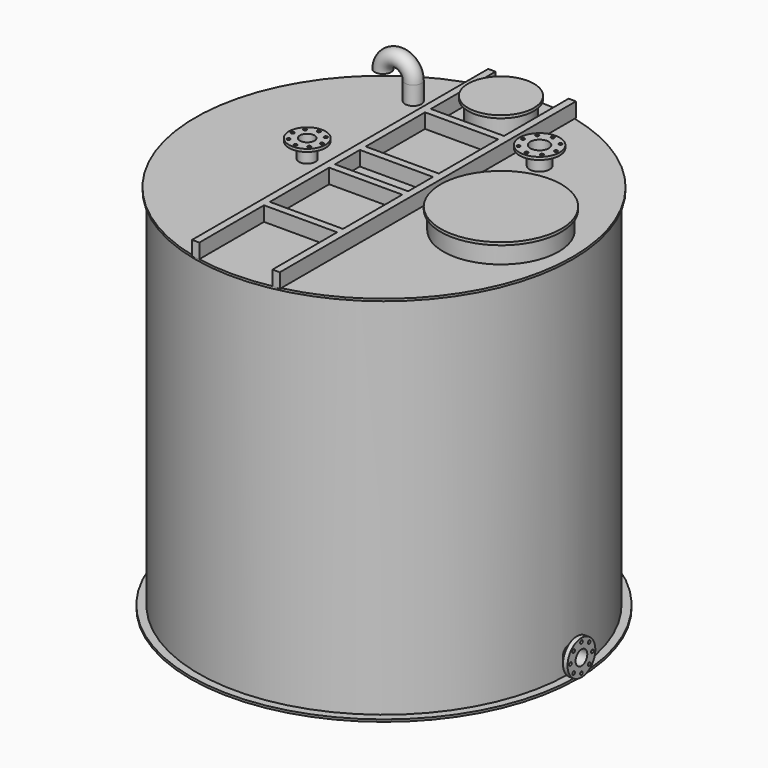
from build123d import *

# Parameters (mm, degrees)
F2_W      = 400
F2_H      = 405.5
F2_H_2    = 170
F3_DEPTH  = 80
F4_R      = 315
F5_DEPTH  = 100
F6_R      = 330
F7_DEPTH  = 15
F8_R      = 45
F9_DEPTH  = 100
F10_R     = 100
F10_R_2   = 9
F11_DEPTH = 15
F12_R     = 40
F13_DEPTH = 200
F14_R     = 158
F15_DEPTH = 100
F16_R     = 180
F17_DEPTH = 15
F18_R     = 55
F19_DEPTH = 100
F20_R     = 110
F20_R_2   = 9
F20_R_3   = 55
F21_DEPTH = 15
F22_R     = 50
F23_DEPTH = 200
F24_R     = 45
F28_R     = 45
F29_DEPTH = 1080
F30_R     = 95
F30_R_2   = 9
F31_DEPTH = 25
F32_R     = 40
F33_DEPTH = 500
F34_R     = 45
F35_DEPTH = 1080
F36_R     = 95
F36_R_2   = 9
F37_DEPTH = 15
F38_R     = 40
F39_DEPTH = 1000


with BuildPart() as f1:
    # F0 (on Front) → F1 (revolve)
    with BuildSketch(Plane.XZ):
        Polygon((0, 2024), (0, 0), (1015, 0), (1058, 0), (1058, 12), (1015, 12), (1015, 2012), (1032, 2012), (1032, 2024), (1015, 2024), align=None)
    revolve(axis=Axis((0, 0, 1012), (0, 0, 1)))

    # F2 (on face) → F3 (join)
    with BuildSketch(Plane.XY.offset(2024)):
        Polygon((-200, 1012.5), (-240, 1012.5), (-240, -1012.5), (-200, -1012.5), (-200, -570.5), (200, -570.5), (200, -1012.5), (240, -1012.5), (240, 1012.5), (200, 1012.5), (200, 570.5), (-200, 570.5), align=None)
        with Locations((0, -327.75)):
            Rectangle(F2_W, F2_H, mode=Mode.SUBTRACT)
        Rectangle(F2_W, F2_H_2, mode=Mode.SUBTRACT)
        with Locations((0, 327.75)):
            Rectangle(F2_W, F2_H, mode=Mode.SUBTRACT)
    extrude(amount=F3_DEPTH)

    # F4 (on face) → F5 (join)
    with BuildSketch(Plane.XY.offset(2024)):
        with Locations((640, 0)):
            Circle(F4_R)
    extrude(amount=F5_DEPTH)

    # F6 (on face) → F7 (join)
    with BuildSketch(Plane.XY.offset(2124)):
        with Locations((640, 0)):
            Circle(F6_R)
    extrude(amount=F7_DEPTH)

    # F8 (on face) → F9 (join)
    with BuildSketch(Plane.XY.offset(2024)):
        with Locations((-420, 0)):
            Circle(F8_R)
    extrude(amount=F9_DEPTH)

    # F10 (on face) → F11 (join)
    with BuildSketch(Plane.XY.offset(2124)):
        with Locations((-420, 0)):
            Circle(F10_R)
        with Locations((-476.568542, -56.568542)):
            Circle(F10_R_2, mode=Mode.SUBTRACT)
        with Locations((-420, -80)):
            Circle(F10_R_2, mode=Mode.SUBTRACT)
        with Locations((-363.431458, -56.568542)):
            Circle(F10_R_2, mode=Mode.SUBTRACT)
        with Locations((-500, 0)):
            Circle(F10_R_2, mode=Mode.SUBTRACT)
        with Locations((-476.568542, 56.568542)):
            Circle(F10_R_2, mode=Mode.SUBTRACT)
        with Locations((-340, 0)):
            Circle(F10_R_2, mode=Mode.SUBTRACT)
        with Locations((-420, 80)):
            Circle(F10_R_2, mode=Mode.SUBTRACT)
        with Locations((-363.431458, 56.568542)):
            Circle(F10_R_2, mode=Mode.SUBTRACT)
    extrude(amount=-F11_DEPTH)

    # F12 (on face) → F13 (cut)
    with BuildSketch(Plane.XY.offset(2124)):
        with Locations((-420, 0)):
            Circle(F12_R)
    extrude(amount=-F13_DEPTH, mode=Mode.SUBTRACT)

    # F14 (on face) → F15 (join)
    with BuildSketch(Plane.XY.offset(2024)):
        with Locations((0, 800)):
            Circle(F14_R)
    extrude(amount=F15_DEPTH)

    # F16 (on face) → F17 (join)
    with BuildSketch(Plane.XY.offset(2124)):
        with Locations((0, 800)):
            Circle(F16_R)
    extrude(amount=F17_DEPTH)

    # F18 (on face) → F19 (join)
    with BuildSketch(Plane.XY.offset(2024)):
        with Locations((395, 570)):
            Circle(F18_R)
    extrude(amount=F19_DEPTH)

    # F20 (on face) → F21 (join)
    with BuildSketch(Plane.XY.offset(2124)):
        with Locations((395, 570)):
            Circle(F20_R)
        with Locations((331.36039, 506.36039)):
            Circle(F20_R_2, mode=Mode.SUBTRACT)
        with Locations((395, 480)):
            Circle(F20_R_2, mode=Mode.SUBTRACT)
        with Locations((458.63961, 506.36039)):
            Circle(F20_R_2, mode=Mode.SUBTRACT)
        with Locations((305, 570)):
            Circle(F20_R_2, mode=Mode.SUBTRACT)
        with Locations((331.36039, 633.63961)):
            Circle(F20_R_2, mode=Mode.SUBTRACT)
        with Locations((395, 570)):
            Circle(F20_R_3, mode=Mode.SUBTRACT)
        with Locations((485, 570)):
            Circle(F20_R_2, mode=Mode.SUBTRACT)
        with Locations((395, 660)):
            Circle(F20_R_2, mode=Mode.SUBTRACT)
        with Locations((458.63961, 633.63961)):
            Circle(F20_R_2, mode=Mode.SUBTRACT)
    extrude(amount=-F21_DEPTH)

    # F22 (on face) → F23 (cut)
    with BuildSketch(Plane.XY.offset(2124)):
        with Locations((395, 570)):
            Circle(F22_R)
    extrude(amount=-F23_DEPTH, mode=Mode.SUBTRACT)

    # F27: sweep along a path in F26
    with BuildLine(Plane.XZ.offset(-700)) as f27_path:
        Line((-400, 2024), (-400, 2124))
        ThreePointArc((-400, 2124), (-483.082396, 2207.082396), (-566.164792, 2124))
    # F24 (on face) → F27 (sweep)
    with BuildSketch(Plane.XY.offset(2024)):
        with Locations((-400, 700)):
            Circle(F24_R)
    sweep(path=f27_path.line)

    # F28 (on Right) → F29 (join)
    with BuildSketch(Plane.YZ):
        with Locations((0, 110)):
            Circle(F28_R)
    extrude(amount=F29_DEPTH)

    # F30 (on face) → F31 (join)
    with BuildSketch(Plane.YZ.offset(1080)):
        with Locations((0, 110)):
            Circle(F30_R)
        with Locations((-53.033009, 56.966991)):
            Circle(F30_R_2, mode=Mode.SUBTRACT)
        with Locations((0, 35)):
            Circle(F30_R_2, mode=Mode.SUBTRACT)
        with Locations((53.033009, 56.966991)):
            Circle(F30_R_2, mode=Mode.SUBTRACT)
        with Locations((-75, 110)):
            Circle(F30_R_2, mode=Mode.SUBTRACT)
        with Locations((-53.033009, 163.033009)):
            Circle(F30_R_2, mode=Mode.SUBTRACT)
        with Locations((75, 110)):
            Circle(F30_R_2, mode=Mode.SUBTRACT)
        with Locations((0, 185)):
            Circle(F30_R_2, mode=Mode.SUBTRACT)
        with Locations((53.033009, 163.033009)):
            Circle(F30_R_2, mode=Mode.SUBTRACT)
    extrude(amount=-F31_DEPTH)

    # F32 (on face) → F33 (cut)
    with BuildSketch(Plane.YZ.offset(1080)):
        with Locations((0, 110)):
            Circle(F32_R)
    extrude(amount=-F33_DEPTH, mode=Mode.SUBTRACT)

    # F34 (on Right) → F35 (join)
    with BuildSketch(Plane.YZ):
        with Locations((0, 144)):
            Circle(F34_R)
    extrude(amount=-F35_DEPTH)

    # F36 (on face) → F37 (join)
    with BuildSketch(Plane(origin=(-1080, 0, 0), x_dir=(0, -1, 0), z_dir=(-1, 0, 0))):
        with Locations((0, 144)):
            Circle(F36_R)
        with Locations((0, 69)):
            Circle(F36_R_2, mode=Mode.SUBTRACT)
        with Locations((-75, 144)):
            Circle(F36_R_2, mode=Mode.SUBTRACT)
        with Locations((75, 144)):
            Circle(F36_R_2, mode=Mode.SUBTRACT)
        with Locations((0, 219)):
            Circle(F36_R_2, mode=Mode.SUBTRACT)
    extrude(amount=-F37_DEPTH)

    # F38 (on face) → F39 (cut)
    with BuildSketch(Plane(origin=(-1080, 0, 0), x_dir=(0, -1, 0), z_dir=(-1, 0, 0))):
        with Locations((0, 144)):
            Circle(F38_R)
    extrude(amount=-F39_DEPTH, mode=Mode.SUBTRACT)


solid = f1.part
